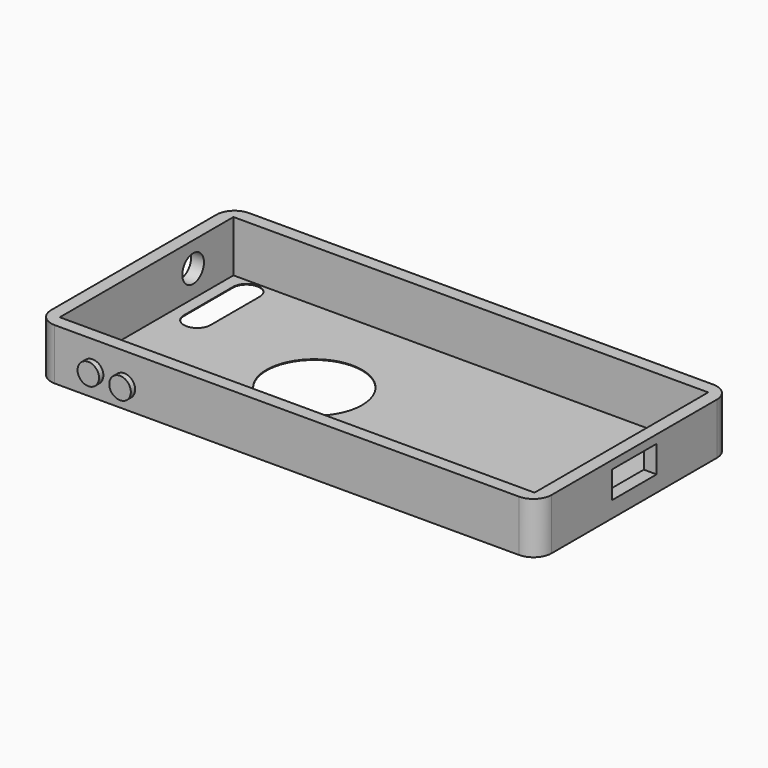
from build123d import *

# Parameters (mm, degrees)
F0_W      = 138.3
F0_H      = 67.1
F0_W_2    = 131.2
F0_H_2    = 60
F1_DEPTH  = 14.2
F2_R      = 5
F3_W      = 132.005408
F3_H      = 60.05396
F3_R      = 13.2201
F4_DEPTH  = 0.2
F5_R      = 2.967269
F5_R_2    = 2.980013
F6_DEPTH  = 1.5
F7_W      = 13.59712
F7_H      = 5.098922
F8_DEPTH  = 1.5
F9_R      = 3.740527
F10_DEPTH = 24
F11_W     = 15.491804
F11_H     = 7.459016
F12_DEPTH = 25


with BuildPart() as f1:
    # F0 (on Top) → F1 (new body)
    with BuildSketch(Plane.XY):
        Rectangle(F0_W, F0_H)
        Rectangle(F0_W_2, F0_H_2, mode=Mode.SUBTRACT)
    extrude(amount=F1_DEPTH)

    # F2
    f2_edges = [f1.edges().sort_by_distance(p)[0] for p in [
        (69.15, 33.55, 7.1),
        (69.15, -33.55, 7.1),
        (-69.15, -33.55, 7.1),
        (-69.15, 33.55, 7.1),
    ]]
    fillet(f2_edges, radius=F2_R)

    # F3 (on Top) → F4 (join)
    with BuildSketch(Plane.XY):
        Rectangle(F3_W, F3_H)
        with Locations((-19.262591, 0)):
            Circle(F3_R, mode=Mode.SUBTRACT)
        with BuildLine():
            ThreePointArc((-62.320147, 25.777878), (-58.637593, 29.460432), (-54.955039, 25.777878))
            Line((-54.955039, 25.777878), (-54.955039, 8.781476))
            ThreePointArc((-54.955039, 8.781476), (-58.637593, 5.098922), (-62.320147, 8.781476))
            Line((-62.320147, 8.781476), (-62.320147, 25.777878))
        make_face(mode=Mode.SUBTRACT)
    extrude(amount=-F4_DEPTH)

    # F5 (on face) → F6 (join)
    with BuildSketch(Plane.XZ.offset(33.55)):
        with Locations((-53.682171, 6.325473)):
            Circle(F5_R)
        with Locations((-44.906233, 5.765563)):
            Circle(F5_R_2)
    extrude(amount=F6_DEPTH)

    # F7 (on face) → F8 (join)
    with BuildSketch(Plane(origin=(-69.15, 0, 0), x_dir=(0, -1, 0), z_dir=(-1, 0, 0))):
        with Locations((17.279675, 7.648382)):
            Rectangle(F7_W, F7_H)
        with BuildLine():
            Line((24.078235, 10.197843), (24.078235, 5.098921))
            ThreePointArc((24.078235, 5.098921), (26.627696, 7.648382), (24.078235, 10.197843))
        make_face()
        with BuildLine():
            ThreePointArc((10.481115, 10.197843), (7.931654, 7.648382), (10.481115, 5.098921))
            Line((10.481115, 5.098921), (10.481115, 10.197843))
        make_face()
    extrude(amount=F8_DEPTH)

    # F9 (on face) → F10 (cut)
    with BuildSketch(Plane(origin=(-69.15, 0, 0), x_dir=(0, -1, 0), z_dir=(-1, 0, 0))):
        with Locations((-16.065575, 7.315574)):
            Circle(F9_R)
    extrude(amount=-F10_DEPTH, mode=Mode.SUBTRACT)

    # F11 (on face) → F12 (cut)
    with BuildSketch(Plane.YZ.offset(69.15)):
        with Locations((0, 8.17623)):
            Rectangle(F11_W, F11_H)
    extrude(amount=-F12_DEPTH, mode=Mode.SUBTRACT)


solid = f1.part
